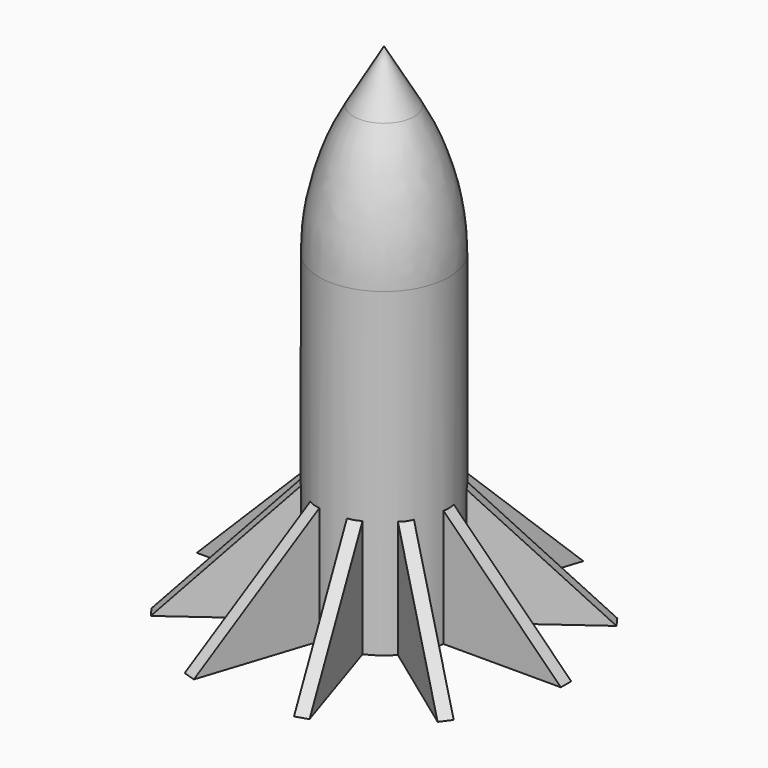
from build123d import *

# Parameters (mm, degrees)
F0_R      = 12.7
F1_DEPTH  = 76.2
F1_FACE_R = 12.7
F2_DEPTH  = 25.4
F2_TAPER  = 30
F3_R      = 50.8
F4_T      = -2.54
F6_DEPTH  = 1.27
F7_COUNT  = 10


with BuildPart() as f1:
    # F0 (on Top) → F1 (new body)
    with BuildSketch(Plane.XY):
        Circle(F0_R)
    extrude(amount=F1_DEPTH)

    # F1_face (on face) → F2 (join)
    with BuildSketch(Plane.XY.offset(76.2)):
        Circle(F1_FACE_R)
    extrude(amount=F2_DEPTH, taper=F2_TAPER)

    # F3
    f3_edges = [f1.edges().sort_by_distance(p)[0] for p in [
        (-12.7, 0, 76.2),
    ]]
    fillet(f3_edges, radius=F3_R)

    # F4
    f4_openings = [f1.faces().sort_by_distance(p)[0] for p in [
        (0, 0, 0),
    ]]
    offset(amount=F4_T, openings=f4_openings)

    # F5 (on Front) → F6 (join, symmetric)
    with BuildSketch(Plane.XZ):
        Polygon((-35.56, 0), (-10.16, 0), (-10.16, 25.4), align=None)
    extrude(amount=F6_DEPTH, both=True)

    # F7: F1 ×10 about axis
    f7_axis = Axis((0, 0, 0), (0, 0, 1))


with BuildPart() as f1_1:
    add(f1.part)
    for i in range(1, F7_COUNT):
        add(f1.part.rotate(f7_axis, i * 360 / F7_COUNT))


solid = f1_1.part
